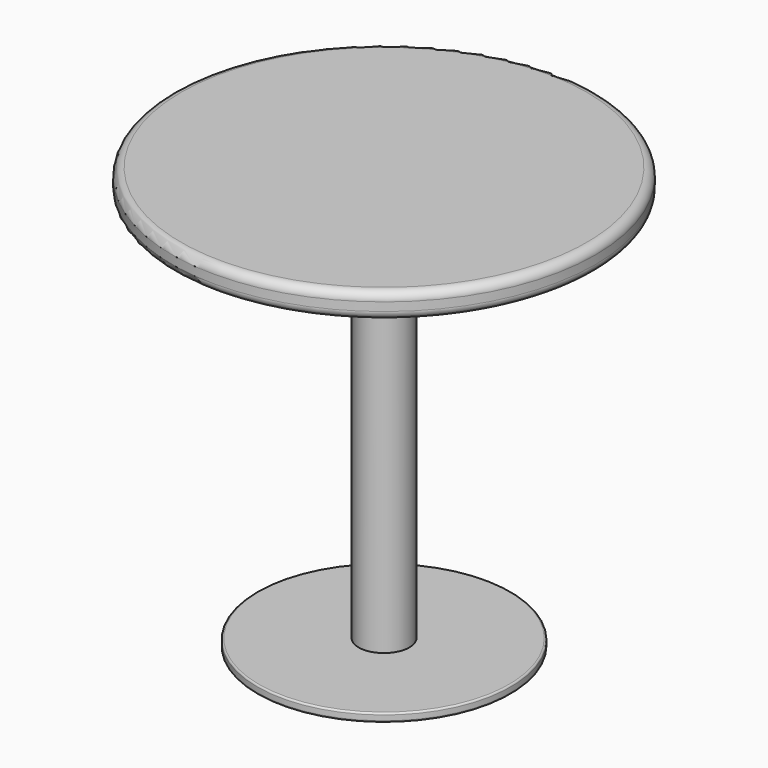
from build123d import *

# Parameters (mm, degrees)
F2_R = 10
F3_R = 2


with BuildPart() as f1:
    # F0 (on Front) → F1 (revolve)
    with BuildSketch(Plane.XZ):
        Polygon((-150, 0), (0, 0), (0, 500), (-250, 500), (-250, 470), (-30, 470), (-30, 10), (-150, 10), align=None)
    revolve(axis=Axis((0, 0, 250), (0, 0, -1)))

    # F2
    f2_edges = [f1.edges().sort_by_distance(p)[0] for p in [
        (250, 0, 500),
        (250, 0, 470),
    ]]
    fillet(f2_edges, radius=F2_R)

    # F3
    f3_edges = [f1.edges().sort_by_distance(p)[0] for p in [
        (150, 0, 0),
        (150, 0, 10),
    ]]
    fillet(f3_edges, radius=F3_R)


solid = f1.part
